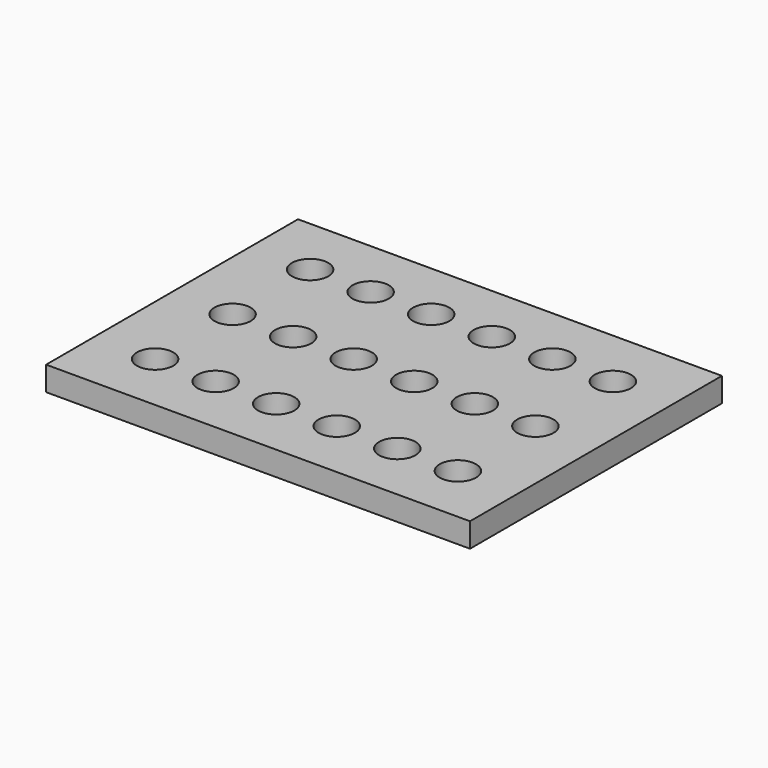
from build123d import *

# Parameters (mm, degrees)
F0_W     = 175.006
F0_H     = 129.9972
F0_R     = 7.5
F1_DEPTH = 10


with BuildPart() as f1:
    # F0 (on Top) → F1 (new body)
    with BuildSketch(Plane.XY):
        Rectangle(F0_W, F0_H)
        with Locations((-62.503, -40.0014)):
            Circle(F0_R, mode=Mode.SUBTRACT)
        with Locations((-37.503, -40.0014)):
            Circle(F0_R, mode=Mode.SUBTRACT)
        with Locations((-12.503, -40.0014)):
            Circle(F0_R, mode=Mode.SUBTRACT)
        with Locations((-62.503, -0.0014)):
            Circle(F0_R, mode=Mode.SUBTRACT)
        with Locations((-37.503, -0.0014)):
            Circle(F0_R, mode=Mode.SUBTRACT)
        with Locations((-12.503, -0.0014)):
            Circle(F0_R, mode=Mode.SUBTRACT)
        with Locations((12.497, -40.0014)):
            Circle(F0_R, mode=Mode.SUBTRACT)
        with Locations((37.497, -40.0014)):
            Circle(F0_R, mode=Mode.SUBTRACT)
        with Locations((62.497, -40.0014)):
            Circle(F0_R, mode=Mode.SUBTRACT)
        with Locations((12.497, -0.0014)):
            Circle(F0_R, mode=Mode.SUBTRACT)
        with Locations((37.497, -0.0014)):
            Circle(F0_R, mode=Mode.SUBTRACT)
        with Locations((62.497, -0.0014)):
            Circle(F0_R, mode=Mode.SUBTRACT)
        with Locations((-62.503, 39.9986)):
            Circle(F0_R, mode=Mode.SUBTRACT)
        with Locations((-37.503, 39.9986)):
            Circle(F0_R, mode=Mode.SUBTRACT)
        with Locations((-12.503, 39.9986)):
            Circle(F0_R, mode=Mode.SUBTRACT)
        with Locations((12.497, 39.9986)):
            Circle(F0_R, mode=Mode.SUBTRACT)
        with Locations((37.497, 39.9986)):
            Circle(F0_R, mode=Mode.SUBTRACT)
        with Locations((62.497, 39.9986)):
            Circle(F0_R, mode=Mode.SUBTRACT)
    extrude(amount=F1_DEPTH)


solid = f1.part
